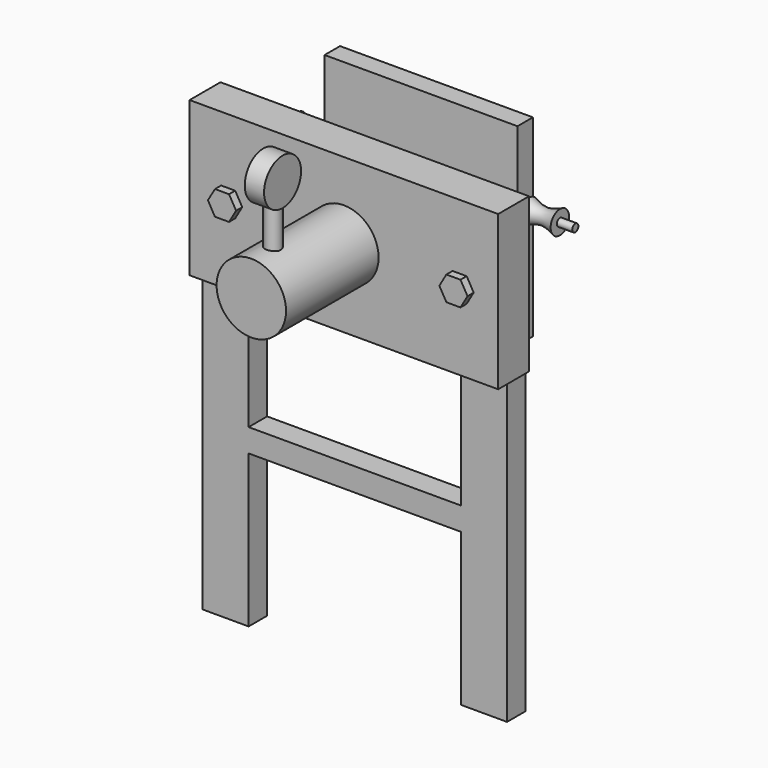
from build123d import *

# Parameters (mm, degrees)
F0_W      = 800
F0_H      = 400
F1_DEPTH  = 50
F2_R      = 90
F3_DEPTH  = 300
F4_R      = 20
F5_DEPTH  = 200
F6_R      = 60
F7_DEPTH  = 25
F9_DEPTH  = 20
F10_R     = 30
F11_DEPTH = 40
F12_W     = 120
F12_H     = 60
F13_DEPTH = 775
F14_R     = 40
F15_DEPTH = 150
F16_W     = 500
F16_H     = 500
F17_DEPTH = 50
F18_R     = 10
F19_DEPTH = 130
F25_W     = 60
F25_H     = 60
F26_DEPTH = 600


with BuildPart() as f1:
    # F0 (on Front) → F1 (new body, symmetric)
    with BuildSketch(Plane.XZ):
        Rectangle(F0_W, F0_H)
    extrude(amount=F1_DEPTH, both=True)

    # F2 (on face) → F3 (join)
    with BuildSketch(Plane.XZ.offset(50)):
        Circle(F2_R)
    extrude(amount=F3_DEPTH)

    # F4 (on Top) → F5 (join)
    with BuildSketch(Plane.XY):
        with Locations((0, -280)):
            Circle(F4_R)
    extrude(amount=F5_DEPTH)

    # F6 (on Right) → F7 (join, symmetric)
    with BuildSketch(Plane.YZ):
        with Locations((-280, 245)):
            Circle(F6_R)
    extrude(amount=F7_DEPTH, both=True)

    # F8 (on face) → F9 (join)
    with BuildSketch(Plane.XZ.offset(50)):
        Polygon((-318.2610926981, -31.6291403548), (-281.7389073019, -31.6291403548), (-263.4778146039, 0), (-281.7389073019, 31.6291403548), (-318.2610926981, 31.6291403548), (-336.5221853961, 0), align=None)
        Polygon((281.7389073019, 31.6291403548), (263.4778146039, 0), (281.7389073019, -31.6291403548), (318.2610926981, -31.6291403548), (336.5221853961, 0), (318.2610926981, 31.6291403548), align=None)
    extrude(amount=F9_DEPTH)

    # F10 (on face) → F11 (cut)
    with BuildSketch(Plane(origin=(0, 50, 0), x_dir=(-1, 0, 0), z_dir=(0, 1, 0))):
        with Locations((-300, 0)):
            Circle(F10_R)
        with Locations((300, 0)):
            Circle(F10_R)
    extrude(amount=-F11_DEPTH, mode=Mode.SUBTRACT)

    # F12 (on face) → F13 (join)
    with BuildSketch(Plane(origin=(0, 0, -200), x_dir=(1, 0, 0), z_dir=(0, 0, -1))):
        with Locations((335, -15)):
            Rectangle(F12_W, F12_H)
        with Locations((-335, -15)):
            Rectangle(F12_W, F12_H)
    extrude(amount=F13_DEPTH)

    # F14 (on face) → F15 (join)
    with BuildSketch(Plane(origin=(0, 50, 0), x_dir=(-1, 0, 0), z_dir=(0, 1, 0))):
        Circle(F14_R)
    extrude(amount=F15_DEPTH)

    # F16 (on face) → F17 (join)
    with BuildSketch(Plane(origin=(0, 200, 0), x_dir=(-1, 0, 0), z_dir=(0, 1, 0))):
        Rectangle(F16_W, F16_H)
    extrude(amount=F17_DEPTH)

    # F18 (on face) → F19 (join)
    with BuildSketch(Plane(origin=(-250, 0, 0), x_dir=(0, -1, 0), z_dir=(-1, 0, 0))):
        with Locations((-225, 50)):
            Circle(F18_R)
    extrude(amount=F19_DEPTH)

    # F22 (on offset) → F23 (revolve)
    with BuildSketch(Plane(origin=(0, 225, 0), x_dir=(-1, 0, 0), z_dir=(0, 1, 0))):
        with BuildLine():
            Line((340, 40), (260, 40))
            Line((260, 40), (260, 20))
            add(Edge.make_bspline(
                [(260, 20), (273.2887466803, 26.2524876464), (300.1899032178, 35.4131948165), (326.622332785, 26.2265646487), (340, 20)],
                knots=[0, 0, 0, 0, 0.5006142666, 1, 1, 1, 1], degree=3))
            Line((340, 20), (340, 40))
        make_face()
    revolve(axis=Axis((-250, 225, 50), (1, 0, 0)))

    # F24: F1 across plane


with BuildPart() as f1_1:
    add(f1.part)
    add(f1.part.mirror(Plane.YZ))

    # F25 (on face) → F26 (join)
    with BuildSketch(Plane(origin=(275, 0, 0), x_dir=(0, -1, 0), z_dir=(-1, 0, 0))):
        with Locations((-15, -550)):
            Rectangle(F25_W, F25_H)
    extrude(amount=F26_DEPTH)


solid = f1_1.part
